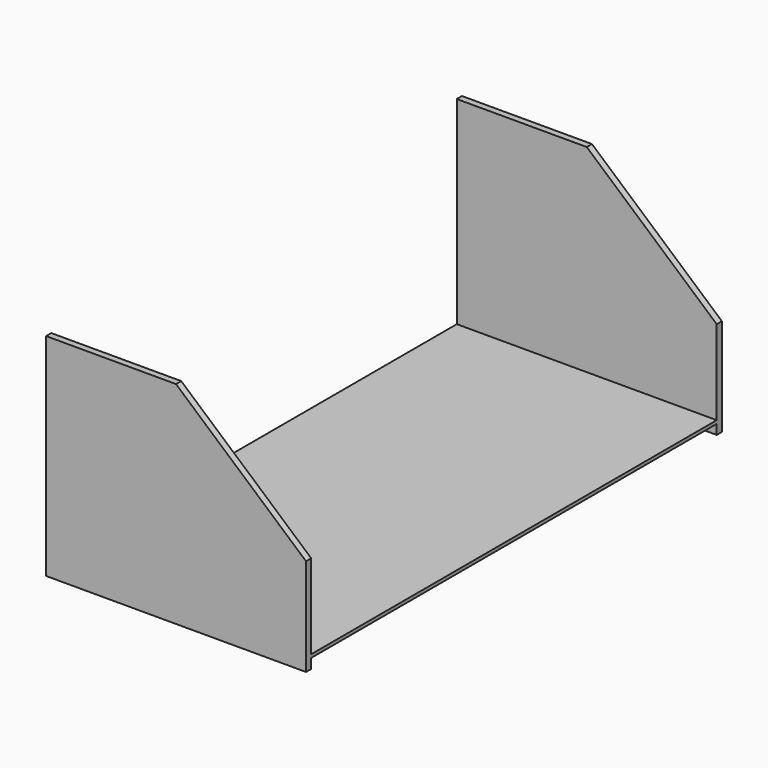
from build123d import *

# Parameters (mm, degrees)
F0_W     = 101.6
F0_H     = 203.2
F1_DEPTH = 50.8
F3_DEPTH = 203.201
F4_W     = 198.12
F4_H     = 33.0125290838
F4_H_2   = 3.81
F5_W     = 67.5063457778
F5_H     = 198.12
F6_DEPTH = 101.601


with BuildPart() as f1:
    # F0 (on Top) → F1 (new body, symmetric)
    with BuildSketch(Plane.XY):
        Rectangle(F0_W, F0_H)
    extrude(amount=F1_DEPTH, both=True)

    # F2 (on face) → F3 (cut, through all)
    with BuildSketch(Plane.XZ.offset(101.6)):
        Polygon((-50.8, 50.8), (-50.8, 31.75), (0, 31.75), (50.8, -12.7074709162), (50.8, 50.8), align=None)
    extrude(amount=-F3_DEPTH, mode=Mode.SUBTRACT)

    # F4 (on face) + F5 (on face) → F6 (cut, through all)
    with BuildSketch(Plane.YZ.offset(50.8)):
        with Locations((0, -29.2137354581)):
            Rectangle(F4_W, F4_H)
        with Locations((0, -48.895)):
            Rectangle(F4_W, F4_H_2)
    with BuildSketch(Plane(origin=(15.7348640799, 0, 17.9796798779), x_dir=(0.7525218469, 0, -0.6585672858), z_dir=(0.6585672858, 0, 0.7525218469))):
        with Locations((12.8436615633, 0)):
            Rectangle(F5_W, F5_H)
    extrude(amount=-F6_DEPTH, dir=(1, 0, 0), mode=Mode.SUBTRACT)


solid = f1.part
